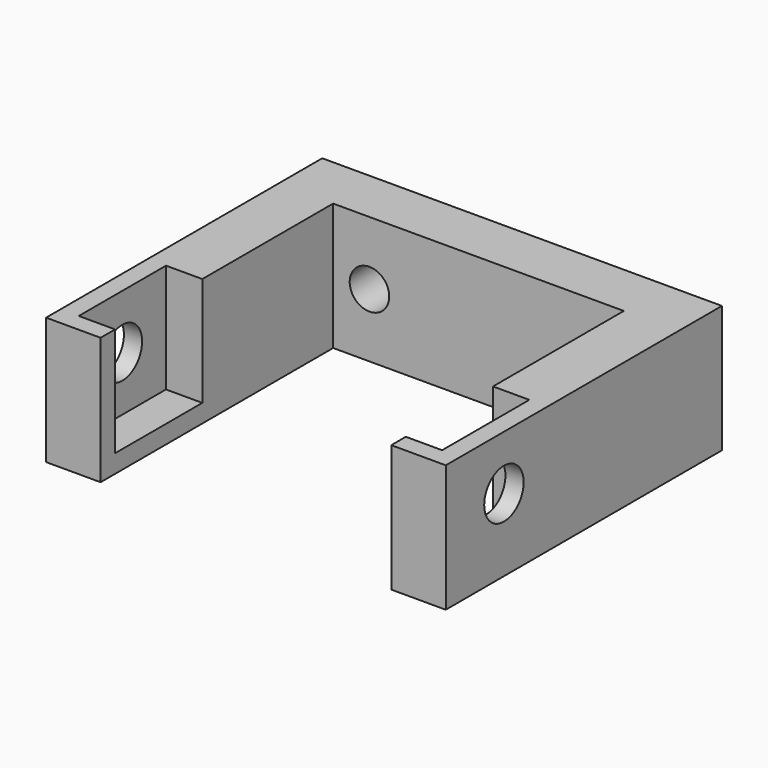
from build123d import *

# Parameters (mm, degrees)
F1_DEPTH = 11.1125
F2_W     = 3.175
F2_H     = 9.525
F3_DEPTH = 9.525
F4_R     = 2.15265
F5_DEPTH = 34.925
F6_R     = 1.7272
F7_DEPTH = 4.7625


with BuildPart() as f1:
    # F0 (on Top) → F1 (new body)
    with BuildSketch(Plane.XY):
        Polygon((0, 0), (-34.925, 0), (-34.925, -30.1625), (-30.1625, -30.1625), (-30.1625, -4.7625), (-4.7625, -4.7625), (-4.7625, -30.1625), (0, -30.1625), align=None)
    extrude(amount=F1_DEPTH)

    # F2 (on face) → F3 (cut)
    with BuildSketch(Plane.XY.offset(11.1125)):
        with Locations((-31.75, -23.8125)):
            Rectangle(F2_W, F2_H)
        with Locations((-3.175, -23.8125)):
            Rectangle(F2_W, F2_H)
    extrude(amount=-F3_DEPTH, mode=Mode.SUBTRACT)

    # F4 (on face) → F5 (cut, through all)
    with BuildSketch(Plane(origin=(-34.925, 0, 0), x_dir=(0, -1, 0), z_dir=(-1, 0, 0))):
        with Locations((23.8125, 6.35)):
            Circle(F4_R)
    extrude(amount=-F5_DEPTH, mode=Mode.SUBTRACT)

    # F6 (on face) → F7 (cut, through all)
    with BuildSketch(Plane.XZ.offset(4.7625)):
        with Locations((-7.9375, 5.55625)):
            Circle(F6_R)
        with Locations((-26.9875, 5.55625)):
            Circle(F6_R)
    extrude(amount=-F7_DEPTH, mode=Mode.SUBTRACT)


solid = f1.part
